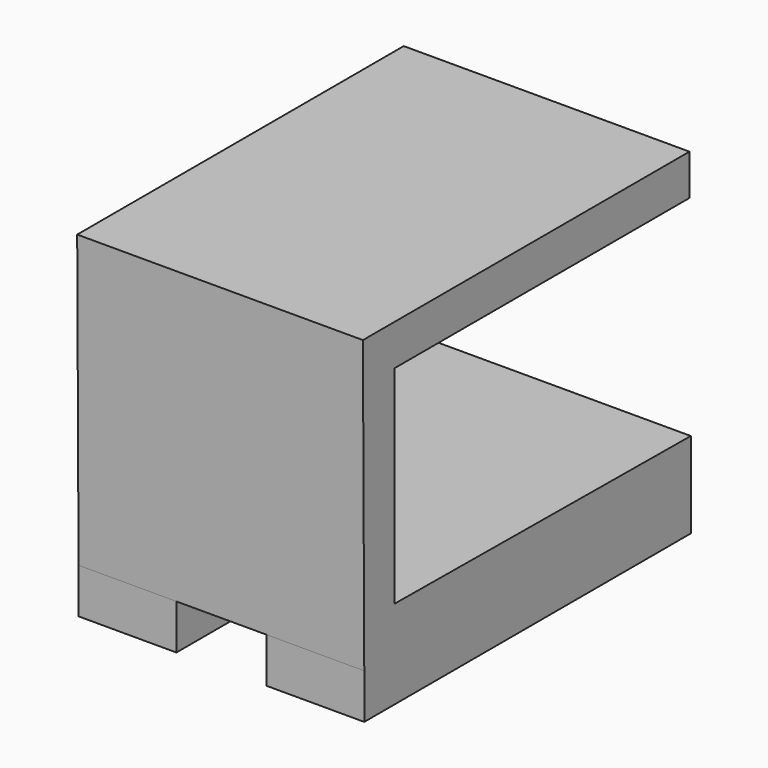
from build123d import *

# Parameters (mm, degrees)
F1_DEPTH = 44.45
F2_W     = 15.225
F2_H     = 63.5
F3_DEPTH = 7


with BuildPart() as f1:
    # F0 (on Right) → F1 (new body)
    with BuildSketch(Plane.YZ):
        Polygon((-25.589595, -3.175), (31.75, -3.175), (31.75, 3.175), (-31.75, 3.175), (-31.485815, -42.22507), (32.014185, -42.22507), (32.014185, -35.87507), (-25.589595, -35.433), align=None)
    extrude(amount=F1_DEPTH)

    # F2 (on face) → F3 (join)
    with BuildSketch(Plane(origin=(0, 0, -42.22507), x_dir=(1, 0, 0), z_dir=(0, 0, -1))):
        with Locations((36.8375, -0.264185)):
            Rectangle(F2_W, F2_H)
        with Locations((7.6125, -0.264185)):
            Rectangle(F2_W, F2_H)
    extrude(amount=F3_DEPTH)


solid = f1.part
